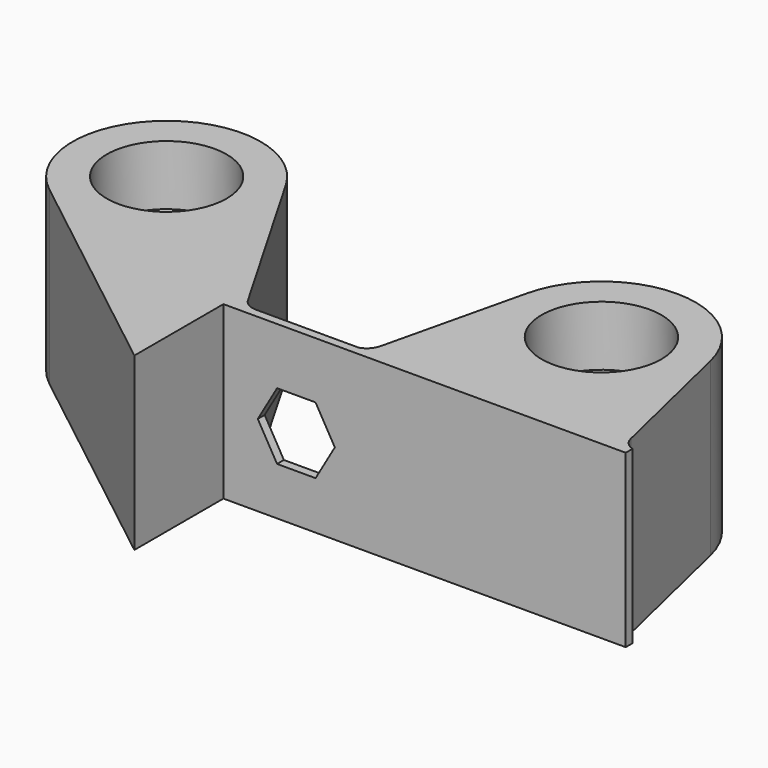
from build123d import *

# Parameters (mm, degrees)
SKETCH008_R     = 2.1
PAD003_DEPTH    = 10
POCKET005_DEPTH = 3
SKETCH010_R     = 3.5
POCKET006_DEPTH = 3.5


with BuildPart() as part:
    # Sketch008 → Pad003 (new body)
    with BuildSketch(Plane.XY):
        with BuildLine():
            Line((7.31364, 0.727262), (5.35154, 9))
            ThreePointArc((5.35154, 9), (0, 13.23074), (-5.35154, 9))
            Line((-5.35154, 9), (-7.31364, 0.727262))
            ThreePointArc((-8, 0), (-7.559385, 0.271676), (-7.31364, 0.727262))
            Line((-14, 0), (-8, 0))
            ThreePointArc((-14.86632, 0.499489), (-14.500079, 0.133679), (-14, 0))
            Line((-20.638485, 10.483552), (-14.86632, 0.499489))
            ThreePointArc((-20.638485, 10.483552), (-29.007959, 11.88196), (-28.789459, 3.399278))
            Line((-15.5, -7), (-28.789459, 3.399278))
            Line((-15.5, -0.5), (-15.5, -7))
            Line((8, -0.5), (-15.5, -0.5))
            Line((8, 0), (8, -0.5))
            ThreePointArc((7.31364, 0.727262), (7.559385, 0.271676), (8, 0))
        make_face()
        with Locations((-25.4, 7.73074)):
            Circle(SKETCH008_R, mode=Mode.SUBTRACT)
        with Locations((0, 7.73074)):
            Circle(SKETCH008_R, mode=Mode.SUBTRACT)
    extrude(amount=PAD003_DEPTH)

    # Sketch009 (on Face5 of Pad003) → Pocket005 (cut)
    with BuildSketch(Plane(origin=(0, 0, 0), x_dir=(-1, 0, 0), z_dir=(0, 1, 0))):
        Polygon((12.365, 2.801443), (13.49, 4.75), (12.365, 6.698557), (10.115, 6.698557), (8.99, 4.75), (10.115, 2.801443), align=None)
    extrude(amount=-POCKET005_DEPTH, mode=Mode.SUBTRACT)

    # Sketch010 (on Face5 of Pocket005) → Pocket006 (cut)
    with BuildSketch(Plane.XY.offset(10)):
        with Locations((-25.4, 7.73074)):
            Circle(SKETCH010_R)
        with Locations((0, 7.73074)):
            Circle(SKETCH010_R)
    extrude(amount=-POCKET006_DEPTH, mode=Mode.SUBTRACT)


solid = part.part
